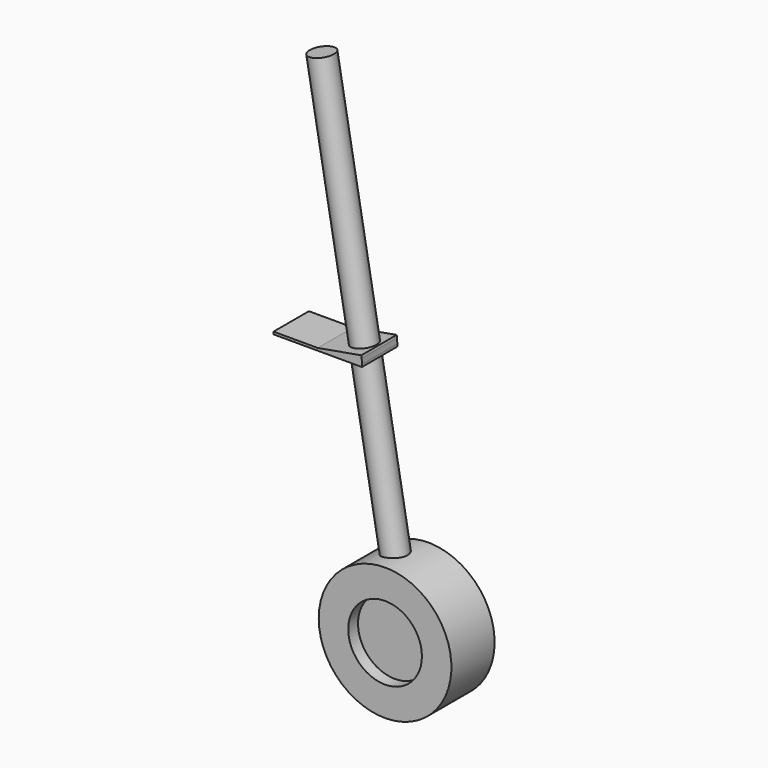
from build123d import *

# Parameters (mm, degrees)
F0_W      = 180
F0_H      = 90
F1_DEPTH  = 5
F3_DEPTH  = 90
F4_R      = 25
F5_DEPTH  = 495
F6_DEPTH  = 500
F9_R      = 135
F10_DEPTH = 55
F11_R     = 75
F12_DEPTH = 25
F13_R     = 75
F14_DEPTH = 25


with BuildPart() as f1:
    # F0 (on Top) → F1 (new body)
    with BuildSketch(Plane.XY):
        Rectangle(F0_W, F0_H)
    extrude(amount=F1_DEPTH)

    # F2 (on face) → F3 (join)
    with BuildSketch(Plane.XZ.offset(45)):
        Polygon((88.6326977711, 20.62833599), (0, 5), (28.4956841358, 5), (89.5009386594, 15.704297225), align=None)
        Polygon((89.5009386594, 15.704297225), (28.4956841358, 5), (90, 5), align=None)
    extrude(amount=-F3_DEPTH)

    # F4 (on face) → F5 (join)
    with BuildSketch(Plane(origin=(-0.8550503583, 0, 4.849231552), x_dir=(0.984807753, 0, 0.1736481777), z_dir=(-0.1736481777, 0, 0.984807753))):
        with Locations((60.8682408883, 0)):
            Circle(F4_R)
    extrude(amount=-F5_DEPTH)

    # F4 (on face) → F6 (join)
    with BuildSketch(Plane(origin=(-0.8550503583, 0, 4.849231552), x_dir=(0.984807753, 0, 0.1736481777), z_dir=(-0.1736481777, 0, 0.984807753))):
        with Locations((60.8682408883, 0)):
            Circle(F4_R)
    extrude(amount=F6_DEPTH)

    # F9 (on line) → F10 (join, symmetric)
    with BuildSketch(Plane(origin=(0, 0, 0), x_dir=(-1, 0, 0), z_dir=(0, 1, 0))):
        with Locations((-145.0443131259, -472.060947081)):
            Circle(F9_R)
    extrude(amount=F10_DEPTH, both=True)

    # F11 (on face) → F12 (cut)
    with BuildSketch(Plane.XZ.offset(55)):
        with Locations((145.0443131259, -472.060947081)):
            Circle(F11_R)
    extrude(amount=-F12_DEPTH, mode=Mode.SUBTRACT)

    # F13 (on face) → F14 (cut)
    with BuildSketch(Plane(origin=(0, 55, 0), x_dir=(-1, 0, 0), z_dir=(0, 1, 0))):
        with Locations((-145.0443131259, -472.060947081)):
            Circle(F13_R)
    extrude(amount=-F14_DEPTH, mode=Mode.SUBTRACT)


solid = f1.part
